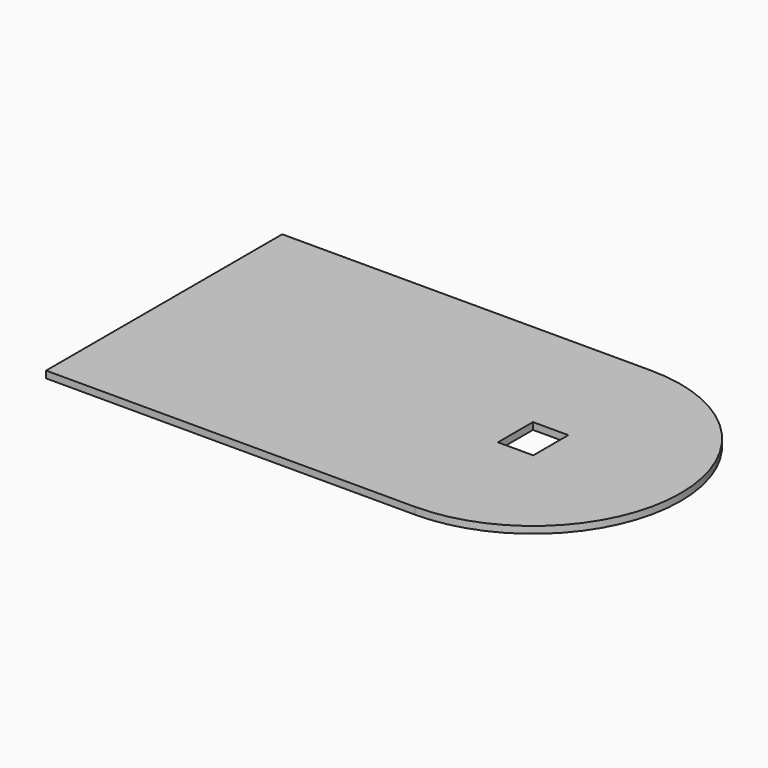
from build123d import *

# Parameters (mm, degrees)
F0_W     = 1524
F0_H     = 1219.2
F1_DEPTH = 28.575
F2_W     = 146.05
F2_H     = 180.975
F3_DEPTH = 50.8


with BuildPart() as f1:
    # F0 (on Top) → F1 (new body)
    with BuildSketch(Plane.XY):
        Rectangle(F0_W, F0_H)
        with BuildLine():
            ThreePointArc((762, -609.6), (1371.6, 0), (762, 609.6))
            Line((762, 609.6), (762, -609.6))
        make_face()
    extrude(amount=F1_DEPTH)

    # F2 (on face) → F3 (cut)
    with BuildSketch(Plane.XY.offset(28.575)):
        with Locations((762, 0)):
            Rectangle(F2_W, F2_H)
    extrude(amount=-F3_DEPTH, mode=Mode.SUBTRACT)


solid = f1.part
